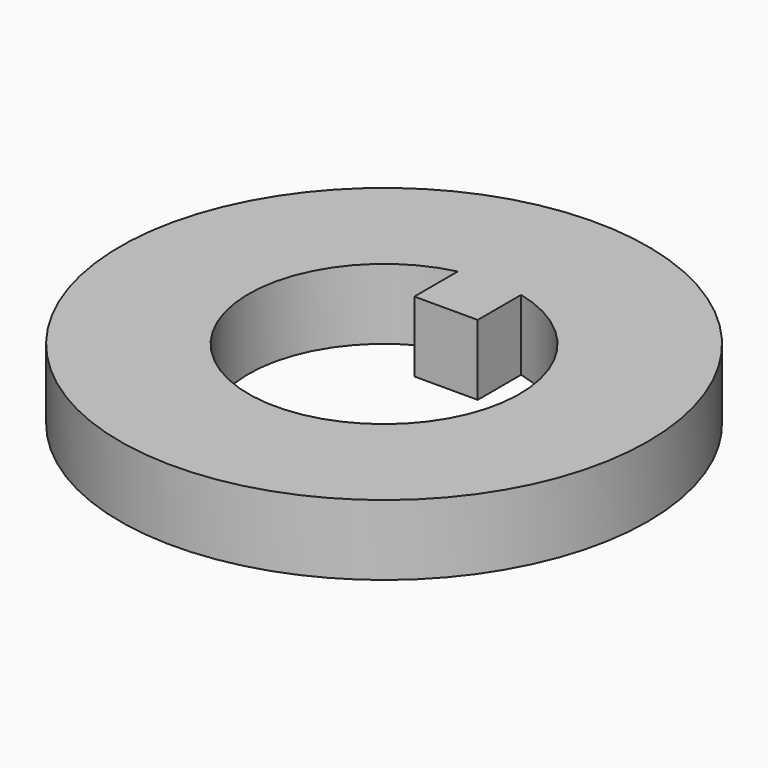
from build123d import *

# Parameters (mm, degrees)
F0_R     = 9.525
F1_DEPTH = 2.54


with BuildPart() as f1:
    # F0 (on Top) → F1 (new body)
    with BuildSketch(Plane.XY):
        Circle(F0_R)
        with BuildLine():
            ThreePointArc((1.143, 4.754026), (0, -4.8895), (-1.143, 4.754026))
            Line((-1.143, 4.754026), (-1.143, 2.794))
            Line((-1.143, 2.794), (1.143, 2.794))
            Line((1.143, 2.794), (1.143, 4.754026))
        make_face(mode=Mode.SUBTRACT)
    extrude(amount=F1_DEPTH)


solid = f1.part
